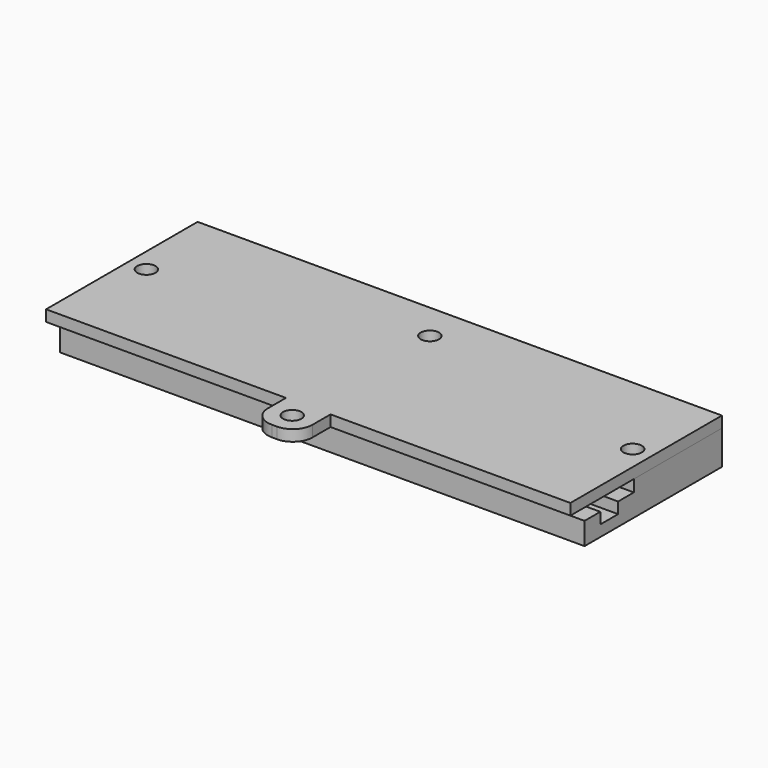
from build123d import *

# Parameters (mm, degrees)
F1_DEPTH = 101.6
F2_R     = 1.778
F3_DEPTH = 6.605
F5_DEPTH = 101.6
F6_R     = 1.778
F7_DEPTH = 2.16
F8_W     = 8.636
F8_H     = 8.1915
F8_R     = 1.778
F9_DEPTH = 2.159
F10_R    = 3.81


with BuildPart() as f1:
    # F0 (on Right) → F1 (new body)
    with BuildSketch(Plane.YZ):
        Polygon((-6.446921, 0), (-6.446921, -4.318), (26.827079, -4.318), (26.827079, 0), (26.827079, 2.286), (5.491079, 2.286), (5.491079, 0), (1.681079, 0), (1.681079, -2.159), (-2.636921, -2.159), (-2.636921, 0), align=None)
    extrude(amount=F1_DEPTH)

    # F2 (on face) → F3 (cut, through all)
    with BuildSketch(Plane.XY.offset(2.286)):
        with Locations((97.917, 9.809079)):
            Circle(F2_R)
        with Locations((3.683, 9.809079)):
            Circle(F2_R)
        with Locations((50.8, 19.588079)):
            Circle(F2_R)
    extrude(amount=-F3_DEPTH, mode=Mode.SUBTRACT)


with BuildPart() as f5:
    # F4 (on Right) → F5 (new body, through all)
    with BuildSketch(Plane.YZ):
        Polygon((-9.875921, 4.445), (-9.875921, 2.286), (5.491079, 2.286), (26.827079, 2.286), (26.827079, 4.445), align=None)
    extrude(amount=F5_DEPTH)

    # F6 (on face) → F7 (cut, through all)
    with BuildSketch(Plane(origin=(0, 0, 2.286), x_dir=(1, 0, 0), z_dir=(0, 0, -1))):
        with Locations((97.917, -9.809079)):
            Circle(F6_R)
        with Locations((3.683, -9.809079)):
            Circle(F6_R)
        with Locations((50.8, -19.588079)):
            Circle(F6_R)
    extrude(amount=-F7_DEPTH, mode=Mode.SUBTRACT)

    # F8 (on face) → F9 (join, through all)
    with BuildSketch(Plane.XY.offset(4.445)):
        with Locations((50.8, -13.971671)):
            Rectangle(F8_W, F8_H)
        with Locations((50.8, -13.749421)):
            Circle(F8_R, mode=Mode.SUBTRACT)
    extrude(amount=-F9_DEPTH)

    # F10
    f10_edges = [f5.edges().sort_by_distance(p)[0] for p in [
        (55.118, -18.067421, 3.3655),
        (46.482, -18.067421, 3.3655),
    ]]
    fillet(f10_edges, radius=F10_R)


solid = Compound([f1.part, f5.part])
